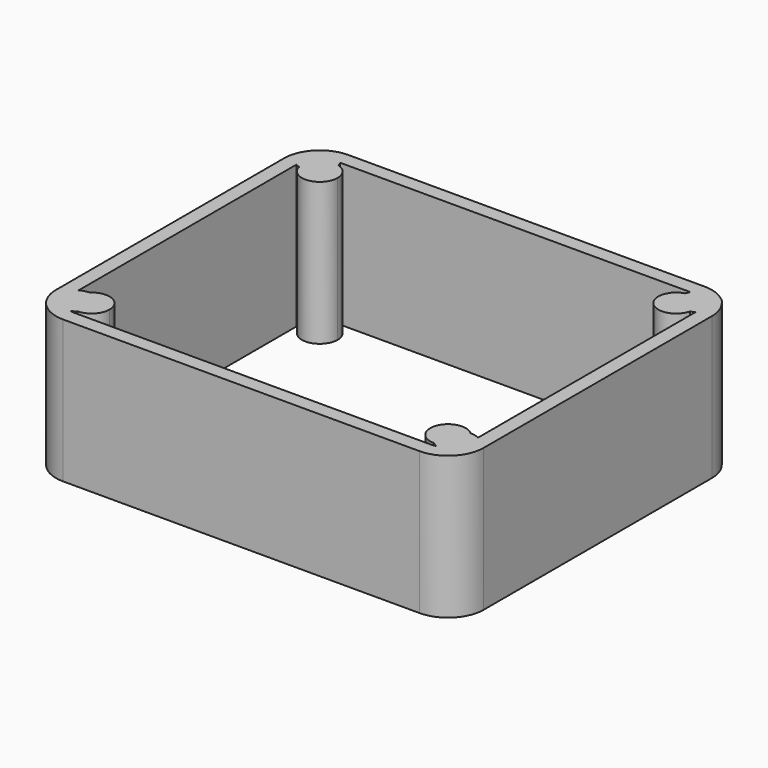
from build123d import *

# Parameters (mm, degrees)
F1_DEPTH = 25.4
F2_T     = -2.54
F4_DEPTH = 25.4


with BuildPart() as f1:
    # F0 (on Top) → F1 (new body)
    with BuildSketch(Plane.XY):
        with BuildLine():
            Line((-31.75, -31.75), (31.75, -31.75))
            ThreePointArc((31.75, -31.75), (36.2401280605, -29.8901280605), (38.1, -25.4))
            Line((38.1, -25.4), (38.1, 25.4))
            ThreePointArc((38.1, 25.4), (36.2401280605, 29.8901280605), (31.75, 31.75))
            Line((31.75, 31.75), (-31.75, 31.75))
            ThreePointArc((-31.75, 31.75), (-36.2401280605, 29.8901280605), (-38.1, 25.4))
            Line((-38.1, 25.4), (-38.1, -25.4))
            ThreePointArc((-38.1, -25.4), (-36.2401280605, -29.8901280605), (-31.75, -31.75))
        make_face()
    extrude(amount=F1_DEPTH)

    # F2
    f2_openings = [f1.faces().sort_by_distance(p)[0] for p in [
        (0, 0, 0),
        (0, 0, 25.4),
    ]]
    offset(amount=F2_T, openings=f2_openings)

    # F3 (on Top) → F4 (join)
    with BuildSketch(Plane.XY):
        with BuildLine():
            ThreePointArc((-34.8345838171, 24.6476917684), (-31.3711389564, 22.2476850872), (-28.575, 25.4))
            ThreePointArc((-28.575, 25.4), (-29.2094457266, 27.3042607447), (-30.8592261315, 28.4474820615))
            ThreePointArc((-30.8592261315, 28.4474820615), (-30.7914950358, 28.0740348735), (-30.7688099486, 27.6951738299))
            ThreePointArc((-30.7688099486, 27.6951738299), (-32.0395492039, 25.1546195565), (-34.8345838171, 24.6476917684))
        make_face()
        with BuildLine():
            ThreePointArc((-30.7688099486, 27.6951738299), (-30.7914950358, 28.0740348735), (-30.8592261315, 28.4474820615))
            ThreePointArc((-30.8592261315, 28.4474820615), (-33.9438099486, 27.6951738299), (-34.8345838171, 24.6476917684))
            ThreePointArc((-34.8345838171, 24.6476917684), (-32.0395492039, 25.1546195565), (-30.7688099486, 27.6951738299))
        make_face()
        with BuildLine():
            ThreePointArc((-34.8345838171, 24.6476917684), (-33.9438099486, 27.6951738299), (-30.8592261315, 28.4474820615))
            ThreePointArc((-30.8592261315, 28.4474820615), (-36.1376198972, 29.9903476598), (-34.8345838171, 24.6476917684))
        make_face()
        with BuildLine():
            ThreePointArc((-31.75, -28.575), (-29.5049359697, -27.6450640303), (-28.575, -25.4))
            ThreePointArc((-28.575, -25.4), (-30.5019458319, -22.480584683), (-33.9438099486, -23.1048261701))
            ThreePointArc((-33.9438099486, -23.1048261701), (-31.6987459183, -24.0347621398), (-30.7688099486, -26.2798261701))
            ThreePointArc((-30.7688099486, -26.2798261701), (-31.0243946315, -27.5278803382), (-31.75, -28.575))
        make_face()
        with BuildLine():
            ThreePointArc((-30.7688099486, -26.2798261701), (-31.6987459183, -24.0347621398), (-33.9438099486, -23.1048261701))
            ThreePointArc((-33.9438099486, -23.1048261701), (-34.6968459334, -26.5818308022), (-31.75, -28.575))
            ThreePointArc((-31.75, -28.575), (-31.0243946315, -27.5278803382), (-30.7688099486, -26.2798261701))
        make_face()
        with BuildLine():
            ThreePointArc((-31.75, -28.575), (-34.6968459334, -26.5818308022), (-33.9438099486, -23.1048261701))
            ThreePointArc((-33.9438099486, -23.1048261701), (-36.890655882, -27.4616569723), (-31.75, -28.575))
        make_face()
        with BuildLine():
            ThreePointArc((34.8303002747, 24.630340843), (34.9012361362, 25.0122683738), (34.925, 25.4))
            ThreePointArc((34.925, 25.4), (33.6797927403, 27.9212149808), (30.9208897768, 28.4648329869))
            ThreePointArc((30.9208897768, 28.4648329869), (31.7779499244, 25.4284960104), (34.8303002747, 24.630340843))
        make_face()
        with BuildLine():
            ThreePointArc((30.9208897768, 28.4648329869), (33.6797927403, 27.9212149808), (34.925, 25.4))
            ThreePointArc((34.925, 25.4), (34.9012361362, 25.0122683738), (34.8303002747, 24.630340843))
            ThreePointArc((34.8303002747, 24.630340843), (36.5224050322, 25.7653810896), (37.1761900514, 27.6951738299))
            ThreePointArc((37.1761900514, 27.6951738299), (34.3889216777, 30.8464099661), (30.9208897768, 28.4648329869))
        make_face()
        with BuildLine():
            ThreePointArc((34.8303002747, 24.630340843), (31.7779499244, 25.4284960104), (30.9208897768, 28.4648329869))
            ThreePointArc((30.9208897768, 28.4648329869), (29.526759873, 23.1333221805), (34.8303002747, 24.630340843))
        make_face()
        with BuildLine():
            ThreePointArc((31.8068477454, -28.5744910354), (34.015073574, -27.6248745367), (34.925, -25.4))
            ThreePointArc((34.925, -25.4), (34.6695600543, -24.1522844518), (33.944342306, -23.1053351347))
            ThreePointArc((33.944342306, -23.1053351347), (31.0440156013, -25.1240821363), (31.8068477454, -28.5744910354))
        make_face()
        with BuildLine():
            ThreePointArc((33.944342306, -23.1053351347), (34.6695600543, -24.1522844518), (34.925, -25.4))
            ThreePointArc((34.925, -25.4), (34.015073574, -27.6248745367), (31.8068477454, -28.5744910354))
            ThreePointArc((31.8068477454, -28.5744910354), (35.2489055996, -29.1993862244), (37.1761900514, -26.2798261701))
            ThreePointArc((37.1761900514, -26.2798261701), (36.2260645881, -24.0147525961), (33.944342306, -23.1053351347))
        make_face()
        with BuildLine():
            ThreePointArc((31.8068477454, -28.5744910354), (31.0440156013, -25.1240821363), (33.944342306, -23.1053351347))
            ThreePointArc((33.944342306, -23.1053351347), (28.7928255499, -24.2442559662), (31.8068477454, -28.5744910354))
        make_face()
    extrude(amount=F4_DEPTH)


solid = f1.part
